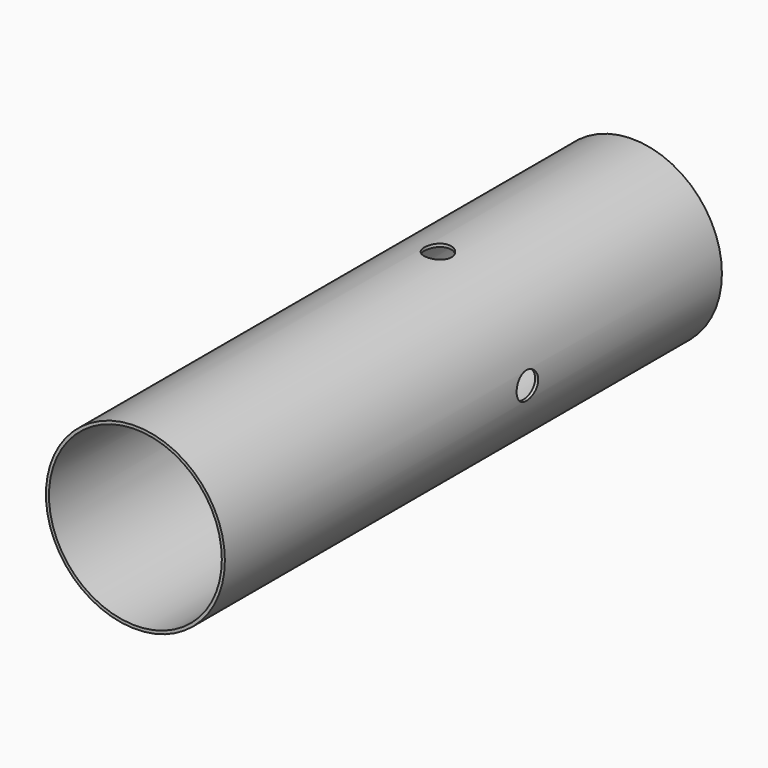
from build123d import *

# Parameters (mm, degrees)
F0_R     = 84.1375
F0_R_2   = 81.28
F1_DEPTH = 457.2
F2_R     = 12.7
F3_DEPTH = 127
F4_R     = 12.7
F5_DEPTH = 127
F6_R     = 84.1375
F6_R_2   = 81.28
F7_DEPTH = 127


with BuildPart() as f1:
    # F0 (on Front) → F1 (new body)
    with BuildSketch(Plane.XZ):
        Circle(F0_R)
        Circle(F0_R_2, mode=Mode.SUBTRACT)
    extrude(amount=F1_DEPTH)

    # F2 (on Right) → F3 (cut, symmetric)
    with BuildSketch(Plane.YZ):
        with Locations((-228.6, 0)):
            Circle(F2_R)
    extrude(amount=F3_DEPTH, both=True, mode=Mode.SUBTRACT)

    # F4 (on Top) → F5 (cut, symmetric)
    with BuildSketch(Plane.XY):
        with Locations((0, -228.6)):
            Circle(F4_R)
    extrude(amount=F5_DEPTH, both=True, mode=Mode.SUBTRACT)

    # F6 (on face) → F7 (join)
    with BuildSketch(Plane.XZ.offset(457.2)):
        Circle(F6_R)
        Circle(F6_R_2, mode=Mode.SUBTRACT)
    extrude(amount=F7_DEPTH)


solid = f1.part
